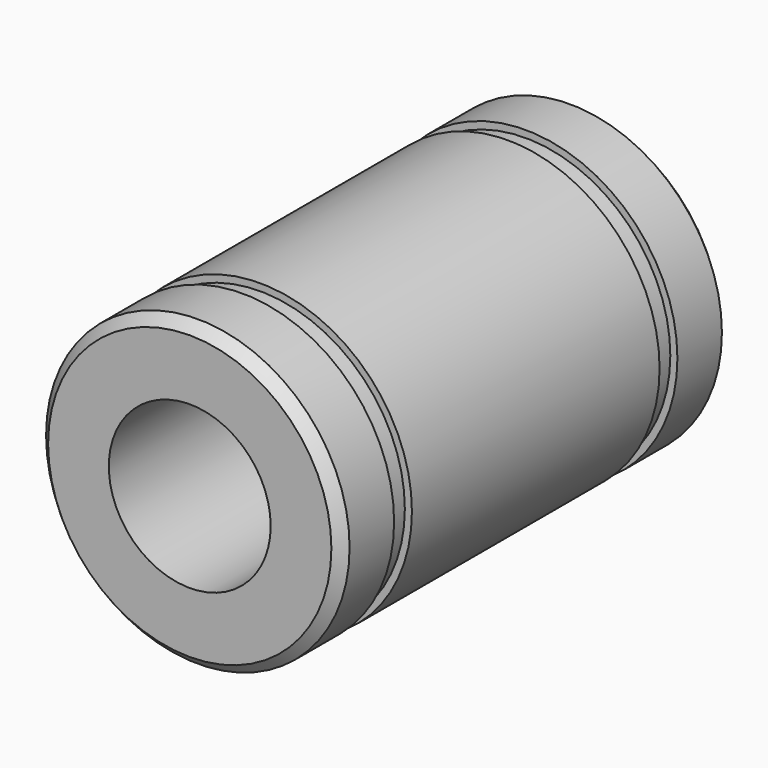
from build123d import *


with BuildPart() as f2:
    # F2: sweep along a path in F0
    with BuildLine(Plane.XZ) as f2_path:
        CenterArc((0, 0), 4, 0, 360)
    # F1 (on Right) → F2 (sweep)
    with BuildSketch(Plane.YZ):
        Polygon((0, 7), (0, 4), (24, 4), (24, 7), (23.5, 7.5), (20.75, 7.5), (20.75, 7.15), (19.65, 7.15), (19.65, 7.5), (12, 7.5), (4.35, 7.5), (4.35, 7.15), (3.25, 7.15), (3.25, 7.5), (0.5, 7.5), align=None)
    sweep(path=f2_path.line)


solid = f2.part
